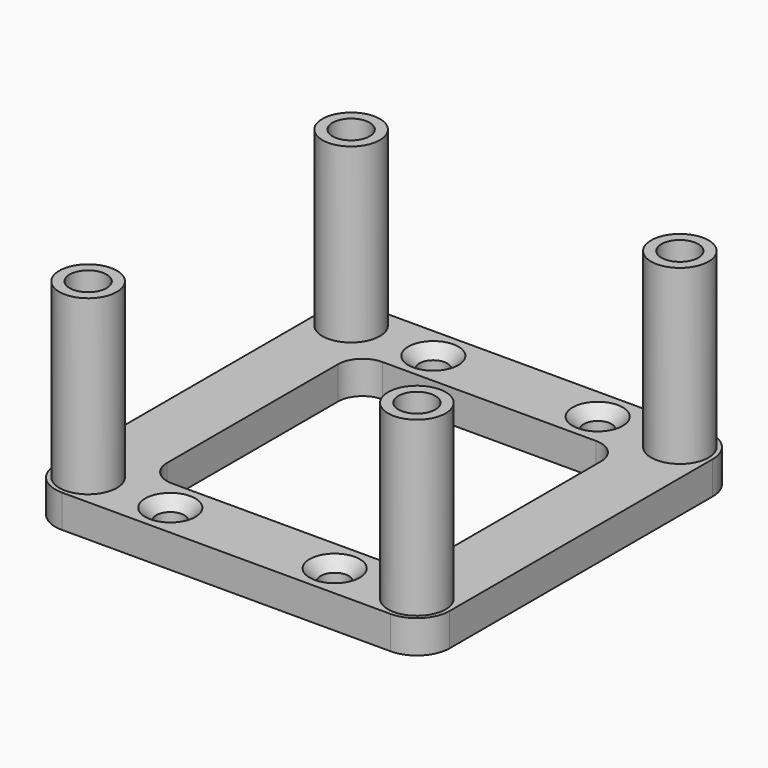
from build123d import *

# Parameters (mm, degrees)
SKETCH_R                     = 3.5
PAD_DEPTH                    = 25
SKETCH002_W                  = 48
SKETCH002_H                  = 48
SKETCH002_W_2                = 32
SKETCH002_H_2                = 32
PAD001_DEPTH                 = 4
SKETCH001_R                  = 2.25
POCKET_DEPTH                 = 7
SKETCH_LINEARPATTERN_2_R     = 3.5
PAD_LINEARPATTERN_2_DEPTH    = 25
SKETCH001_LINEARPATTERN_2_R  = 2.25
POCKET_LINEARPATTERN_2_DEPTH = 7
LINEARPATTERN001_COUNT       = 2
LINEARPATTERN001_PITCH       = 40
HOLE_D                       = 3.4
HOLE_DEPTH                   = 25
HOLE_CSINK_D                 = 6.1
HOLE_CSINK_ANGLE             = 90
FILLET_R                     = 4
FILLET001_R                  = 3


with BuildPart() as part:
    # Sketch → Pad (new body)
    with BuildSketch(Plane.XY):
        Circle(SKETCH_R)
    pad = extrude(amount=PAD_DEPTH)

    # Sketch002 → Pad001 (join)
    with BuildSketch(Plane.XY):
        with Locations((20, 20)):
            Rectangle(SKETCH002_W, SKETCH002_H)
        with Locations((20, 20)):
            Rectangle(SKETCH002_W_2, SKETCH002_H_2, mode=Mode.SUBTRACT)
    extrude(amount=PAD001_DEPTH)

    # Sketch001 → Pocket (cut)
    with BuildSketch(Plane.XY.offset(25)):
        Circle(SKETCH001_R)
    pocket = extrude(amount=-POCKET_DEPTH, mode=Mode.SUBTRACT)

    # Sketch LinearPattern 2 → Pad LinearPattern 2 (add)
    with BuildSketch(Plane(origin=(40, 0, 0), x_dir=(1, 0, 0), z_dir=(0, 0, 1))):
        Circle(SKETCH_LINEARPATTERN_2_R)
    pad_linearpattern_2 = extrude(amount=PAD_LINEARPATTERN_2_DEPTH)

    # Sketch001 LinearPattern 2 → Pocket LinearPattern 2 (cut)
    with BuildSketch(Plane(origin=(40, 0, 25), x_dir=(1, 0, 0), z_dir=(0, 0, 1))):
        Circle(SKETCH001_LINEARPATTERN_2_R)
    pocket_linearpattern_2 = extrude(amount=-POCKET_LINEARPATTERN_2_DEPTH, mode=Mode.SUBTRACT)

    # LinearPattern001: Pad, Pocket, Pad LinearPattern 2, Pocket LinearPattern 2 ×2
    with Locations(*[(0, i * LINEARPATTERN001_PITCH, 0) for i in range(1, LINEARPATTERN001_COUNT)]):
        add(pad)
        add(pocket, mode=Mode.SUBTRACT)
        add(pad_linearpattern_2)
        add(pocket_linearpattern_2, mode=Mode.SUBTRACT)

    # Hole
    with Locations(Plane.XY.offset(4)):
        with Locations((10, 40), (30, 40), (30, 0), (10, 0)):
            CounterSinkHole(HOLE_D / 2, HOLE_CSINK_D / 2, depth=HOLE_DEPTH, counter_sink_angle=HOLE_CSINK_ANGLE)

    # Fillet
    fillet_edges = [part.edges().sort_by_distance(p)[0] for p in [
        (-4, -4, 2),
        (44, -4, 2),
        (-4, 44, 2),
        (44, 44, 2),
    ]]
    fillet(fillet_edges, radius=FILLET_R)

    # Fillet001
    fillet001_edges = [part.edges().sort_by_distance(p)[0] for p in [
        (4, 36, 2),
        (36, 36, 2),
        (36, 4, 2),
        (4, 4, 2),
    ]]
    fillet(fillet001_edges, radius=FILLET001_R)


solid = part.part
